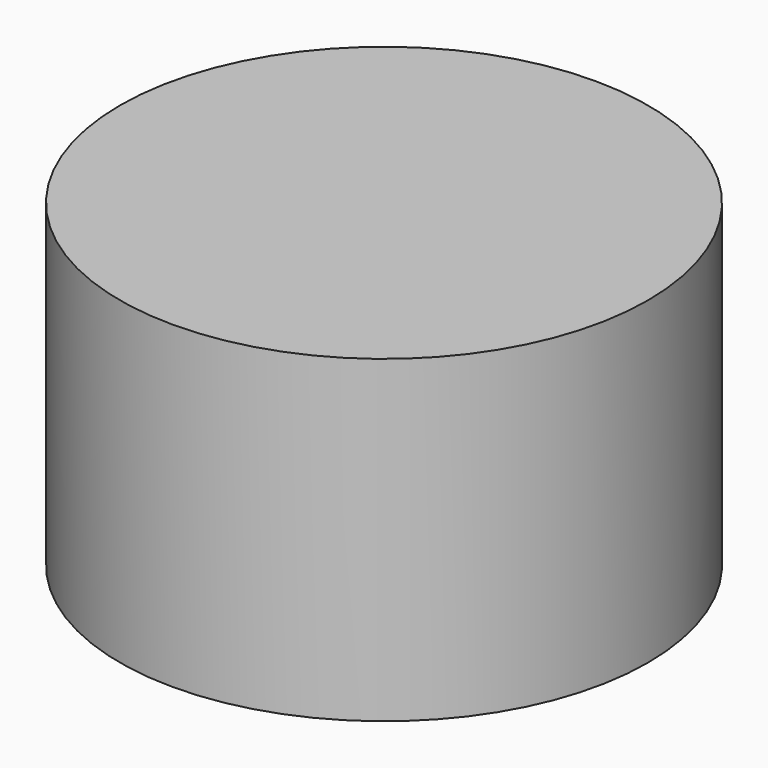
from build123d import *

# Parameters (mm, degrees)
F0_R     = 21.018590953
F1_DEPTH = 25.4
F3_D     = 25.4
F3_DEPTH = 12.7
F3_TIP   = 7.6309298617


with BuildPart() as f1:
    # F0 (on Top) → F1 (new body)
    with BuildSketch(Plane.XY):
        with Locations((0.5829496658, -0.1457377075)):
            Circle(F0_R)
    extrude(amount=F1_DEPTH)

    # F3
    with Locations(Plane(origin=(0, 0, 0), x_dir=(1, 0, 0), z_dir=(0, 0, -1))):
        with Locations((0, 0)):
            Hole(F3_D / 2, depth=F3_DEPTH)
            with Locations((0, 0, -(F3_DEPTH + F3_TIP / 2))):  # 118° drill point
                Cone(0, F3_D / 2, F3_TIP, mode=Mode.SUBTRACT)


solid = f1.part
